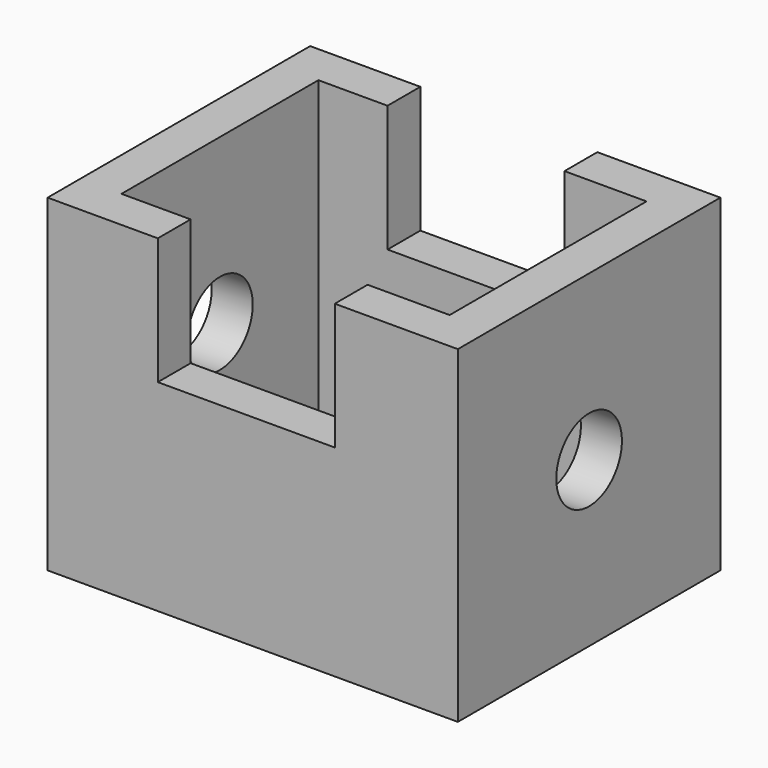
from build123d import *

# Parameters (mm, degrees)
F0_W     = 127
F0_H     = 101.6
F0_W_2   = 101.6
F0_H_2   = 76.2
F1_DEPTH = 101.6
F2_W     = 54.790769
F2_H     = 39.199134
F3_DEPTH = 152.4
F4_R     = 12.7
F5_DEPTH = 203.2


with BuildPart() as f1:
    # F0 (on Top) → F1 (new body)
    with BuildSketch(Plane.XY):
        with Locations((29.390769, 2.499611)):
            Rectangle(F0_W, F0_H)
        with Locations((29.390769, 2.499611)):
            Rectangle(F0_W_2, F0_H_2, mode=Mode.SUBTRACT)
    extrude(amount=F1_DEPTH)

    # F2 (on face) → F3 (cut)
    with BuildSketch(Plane.XZ.offset(48.300389)):
        with Locations((27.395384, 82.000433)):
            Rectangle(F2_W, F2_H)
    extrude(amount=-F3_DEPTH, mode=Mode.SUBTRACT)

    # F4 (on face) → F5 (cut)
    with BuildSketch(Plane(origin=(-34.109231, 0, 0), x_dir=(0, -1, 0), z_dir=(-1, 0, 0))):
        with Locations((-2.499611, 50.8)):
            Circle(F4_R)
    extrude(amount=-F5_DEPTH, mode=Mode.SUBTRACT)


solid = f1.part
